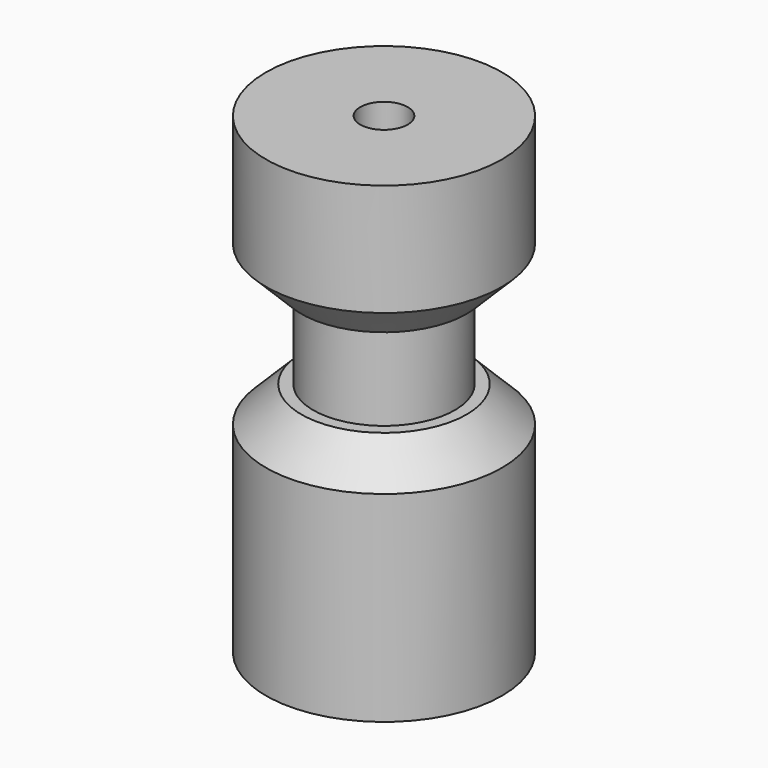
from build123d import *

# Parameters (mm, degrees)
F0_R     = 12.7
F1_DEPTH = 50.8
F2_W     = 5.08
F2_H     = 9.525
F4_SIZE  = 3.81
F6_D     = 5.1054


with BuildPart() as f1:
    # F0 (on Top) → F1 (new body)
    with BuildSketch(Plane.XY):
        Circle(F0_R)
    extrude(amount=F1_DEPTH)

    # F2 (on Right) → F3 (revolve, cut)
    with BuildSketch(Plane.YZ):
        with Locations((-10.16, 30.1625)):
            Rectangle(F2_W, F2_H)
    revolve(axis=Axis((0, 0, 34.6962809563), (0, 0, 1)), mode=Mode.SUBTRACT)

    # F4
    f4_edges = [f1.edges().sort_by_distance(p)[0] for p in [
        (-12.7, 0, 34.925),
        (-12.7, 0, 25.4),
    ]]
    chamfer(f4_edges, length=F4_SIZE)

    # F6 (through all)
    with Locations(Plane(origin=(0, 0, 0), x_dir=(1, 0, 0), z_dir=(0, 0, -1))):
        with Locations((0, 0)):
            Hole(F6_D / 2)


solid = f1.part
